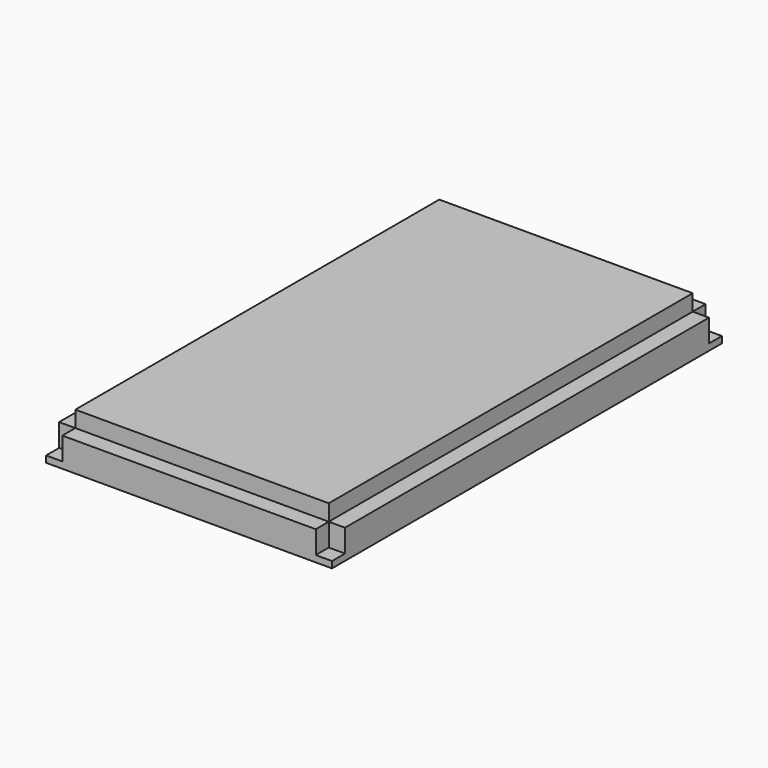
from build123d import *

# Parameters (mm, degrees)
BOX160_W                  = 26
BOX160_H                  = 26
BOX160_DEPTH              = 61
BOX161_W                  = 26
BOX161_H                  = 26
BOX161_DEPTH              = 61
BOX162_W                  = 26
BOX162_H                  = 26
BOX162_DEPTH              = 61
BOX163_W                  = 26
BOX163_H                  = 26
BOX163_DEPTH              = 61
BOX164_W                  = 26
BOX164_H                  = 26
BOX164_DEPTH              = 442
BOX165_W                  = 26
BOX165_H                  = 26
BOX165_DEPTH              = 442
BOX166_W                  = 26
BOX166_H                  = 26
BOX166_DEPTH              = 752
BOX167_W                  = 26
BOX167_H                  = 26
BOX167_DEPTH              = 752
FUSION056_PLACEMENT_ANGLE = 180
BOX129_W                  = 247
BOX129_H                  = 133
BOX129_DEPTH              = 45
BOX123_W                  = 205
BOX123_H                  = 131
BOX123_DEPTH              = 119
BOX123_ROLL_ANGLE         = 118
BOX123_PLACEMENT_ANGLE    = 180
BOX122_W                  = 187
BOX122_H                  = 131
BOX122_DEPTH              = 119
BOX099_W                  = 222
BOX099_H                  = 190
BOX099_DEPTH              = 67
BOX100_W                  = 247
BOX100_H                  = 290
BOX100_DEPTH              = 31.5
BOX098_W                  = 267
BOX098_H                  = 103
BOX098_DEPTH              = 63
BOX128_W                  = 222
BOX128_H                  = 174
BOX128_DEPTH              = 55
BOX114_W                  = 222
BOX114_H                  = 190
BOX114_DEPTH              = 67
BOX115_W                  = 247
BOX115_H                  = 290
BOX115_DEPTH              = 31.5
BOX113_W                  = 267
BOX113_H                  = 103
BOX113_DEPTH              = 63
BOX120_W                  = 237
BOX120_H                  = 55
BOX120_DEPTH              = 124
BOX130_W                  = 750
BOX130_H                  = 70
BOX130_DEPTH              = 440
CUT025_PLACEMENT_ANGLE    = 90


with BuildPart() as cube120:
    # Box160 → Box160 (new body)
    with BuildSketch(Plane(origin=(238, -256, -232), x_dir=(0, 0, 1), z_dir=(-1, 0, 0))):
        with Locations((13, 13)):
            Rectangle(BOX160_W, BOX160_H)
    extrude(amount=BOX160_DEPTH)


with BuildPart() as cube121:
    # Box161 → Box161 (new body)
    with BuildSketch(Plane(origin=(238, -256, 210), x_dir=(0, 1, 0), z_dir=(-1, 0, 0))):
        with Locations((13, 13)):
            Rectangle(BOX161_W, BOX161_H)
    extrude(amount=BOX161_DEPTH)


with BuildPart() as cube122:
    # Box162 → Box162 (new body)
    with BuildSketch(Plane(origin=(238, 496, -232), x_dir=(0, -1, 0), z_dir=(-1, 0, 0))):
        with Locations((13, 13)):
            Rectangle(BOX162_W, BOX162_H)
    extrude(amount=BOX162_DEPTH)


with BuildPart() as cube123:
    # Box163 → Box163 (new body)
    with BuildSketch(Plane(origin=(238, 496, 210), x_dir=(0, 0, -1), z_dir=(-1, 0, 0))):
        with Locations((13, 13)):
            Rectangle(BOX163_W, BOX163_H)
    extrude(amount=BOX163_DEPTH)


with BuildPart() as cube124:
    # Box164 → Box164 (new body)
    with BuildSketch(Plane(origin=(238, 496, 210), x_dir=(0, -1, 0), z_dir=(0, 0, -1))):
        with Locations((13, 13)):
            Rectangle(BOX164_W, BOX164_H)
    extrude(amount=BOX164_DEPTH)


with BuildPart() as cube125:
    # Box165 → Box165 (new body)
    with BuildSketch(Plane(origin=(238, -230, 210), x_dir=(0, -1, 0), z_dir=(0, 0, -1))):
        with Locations((13, 13)):
            Rectangle(BOX165_W, BOX165_H)
    extrude(amount=BOX165_DEPTH)


with BuildPart() as cube126:
    # Box166 → Box166 (new body)
    with BuildSketch(Plane(origin=(238, 496, 210), x_dir=(-1, 0, 0), z_dir=(0, -1, 0))):
        with Locations((13, 13)):
            Rectangle(BOX166_W, BOX166_H)
    extrude(amount=BOX166_DEPTH)


with BuildPart() as supportbeams001:
    # Box167 → Box167 (new body)
    with BuildSketch(Plane(origin=(238, 496, -206), x_dir=(-1, 0, 0), z_dir=(0, -1, 0))):
        with Locations((13, 13)):
            Rectangle(BOX167_W, BOX167_H)
    extrude(amount=BOX167_DEPTH)

    # Fusion056: union Cube120, Cube121, Cube122, Cube123, Cube124, Cube125, Cube126
    add(cube120.part)
    add(cube121.part)
    add(cube122.part)
    add(cube123.part)
    add(cube124.part)
    add(cube125.part)
    add(cube126.part)


with BuildPart() as supportbeams001_1:
    # Fusion056 placement: moved
    add(supportbeams001.part.moved(Location((172, 240, 0))).rotate(Axis((172, 240, 0), (0, 0, 1)), FUSION056_PLACEMENT_ANGLE))


with BuildPart() as f_120_envelope007:
    # Box129 → Box129 (new body)
    with BuildSketch(Plane(origin=(241.570357, -122, 54.646476), x_dir=(-1, 0, 0), z_dir=(0, 1, 0))):
        with Locations((123.5, 66.5)):
            Rectangle(BOX129_W, BOX129_H)
    extrude(amount=BOX129_DEPTH)


with BuildPart() as pocket009:
    # Box123 → Box123 (new body)
    with BuildSketch(Plane.XY):
        with Locations((102.5, 65.5)):
            Rectangle(BOX123_W, BOX123_H)
    extrude(amount=BOX123_DEPTH)


with BuildPart() as pocket009_1:
    # Box123 roll: moved
    add(pocket009.part.rotate(Axis((0, 0, 0), (1, 0, 0)), BOX123_ROLL_ANGLE))


with BuildPart() as pocket009_2:
    # Box123 placement: moved
    add(pocket009_1.part.moved(Location((141.57, -85, 25.646476))).rotate(Axis((141.57, -85, 25.646476), (0, 0, 1)), BOX123_PLACEMENT_ANGLE))


with BuildPart() as compound014:
    # Part__Mirroring003: instance of pocket009
    add(pocket009_2.part.mirror(Plane(origin=(0, 0, 0), x_dir=(0, 1, 0), z_dir=(0, 0, 1))))


with BuildPart() as compound014_1:
    # Compound014 placement: moved
    add(compound014.part.moved(Location((0, 0, -88))))


with BuildPart() as fusion043:
    # Fusion043 base: copy of pocket009
    add(pocket009_2.part)

    # Fusion043: union Compound014
    add(compound014_1.part)


with BuildPart() as prism002:
    # Box122 → Box122 (new body)
    with BuildSketch(Plane(origin=(136.57, -135, -109.353524), x_dir=(-1, 0, 0), z_dir=(0, 1, 0))):
        with Locations((93.5, 65.5)):
            Rectangle(BOX122_W, BOX122_H)
    extrude(amount=BOX122_DEPTH)

    # Cut020: cut Fusion043
    add(fusion043.part, mode=Mode.SUBTRACT)


with BuildPart() as prism002_1:
    # Cut020 placement: moved
    add(prism002.part.moved(Location((35, 0, 0))))


with BuildPart() as cube073:
    # Box099 → Box099 (new body)
    with BuildSketch(Plane(origin=(216.570357, -4, -2.353524), x_dir=(-1, 0, 0), z_dir=(0, 1, 0))):
        with Locations((111, 95)):
            Rectangle(BOX099_W, BOX099_H)
    extrude(amount=BOX099_DEPTH)


with BuildPart() as cube074:
    # Box100 → Box100 (new body)
    with BuildSketch(Plane(origin=(221.570357, 18, -102.353524), x_dir=(-1, 0, 0), z_dir=(0, 1, 0))):
        with Locations((123.5, 145)):
            Rectangle(BOX100_W, BOX100_H)
    extrude(amount=BOX100_DEPTH)


with BuildPart() as standard_envelope002:
    # Box098 → Box098 (new body)
    with BuildSketch(Plane(origin=(216.570357, -2, 23.646476), x_dir=(-1, 0, 0), z_dir=(0, 1, 0))):
        with Locations((133.5, 51.5)):
            Rectangle(BOX098_W, BOX098_H)
    extrude(amount=BOX098_DEPTH)

    # Fusion036: union Cube073, Cube074
    add(cube073.part)
    add(cube074.part)


with BuildPart() as obj1:
    # Box128 → Box128 (new body)
    with BuildSketch(Plane(origin=(216.570357, 393, -2.353524), x_dir=(-1, 0, 0), z_dir=(0, 1, 0))):
        with Locations((111, 87)):
            Rectangle(BOX128_W, BOX128_H)
    extrude(amount=BOX128_DEPTH)


with BuildPart() as cube088:
    # Box114 → Box114 (new body)
    with BuildSketch(Plane(origin=(216.570357, -4, -2.353524), x_dir=(-1, 0, 0), z_dir=(0, 1, 0))):
        with Locations((111, 95)):
            Rectangle(BOX114_W, BOX114_H)
    extrude(amount=BOX114_DEPTH)


with BuildPart() as cube089:
    # Box115 → Box115 (new body)
    with BuildSketch(Plane(origin=(221.570357, 18, -102.353524), x_dir=(-1, 0, 0), z_dir=(0, 1, 0))):
        with Locations((123.5, 145)):
            Rectangle(BOX115_W, BOX115_H)
    extrude(amount=BOX115_DEPTH)


with BuildPart() as standard_envelope003:
    # Box113 → Box113 (new body)
    with BuildSketch(Plane(origin=(216.570357, -2, 23.646476), x_dir=(-1, 0, 0), z_dir=(0, 1, 0))):
        with Locations((133.5, 51.5)):
            Rectangle(BOX113_W, BOX113_H)
    extrude(amount=BOX113_DEPTH)

    # Fusion042: union Cube088, Cube089
    add(cube088.part)
    add(cube089.part)


with BuildPart() as fusion053:
    # Part__Mirroring002: instance of Standard envelope003
    add(standard_envelope003.part.mirror(Plane(origin=(0, 0, 0), x_dir=(1, 0, 0), z_dir=(0, 1, 0))))


with BuildPart() as fusion053_1:
    # Part__Mirroring002 placement: moved
    add(fusion053.part.moved(Location((0, 407.25, 0))))

    # Fusion053: union obj1
    add(obj1.part)


with BuildPart() as fusion054:
    # Box120 → Box120 (new body)
    with BuildSketch(Plane(origin=(216.570357, 100, -72.353524), x_dir=(-1, 0, 0), z_dir=(0, 1, 0))):
        with Locations((118.5, 27.5)):
            Rectangle(BOX120_W, BOX120_H)
    extrude(amount=BOX120_DEPTH)

    # Fusion054: union 120 envelope007, prism002, Standard envelope002, Fusion053
    add(f_120_envelope007.part)
    add(prism002_1.part)
    add(standard_envelope002.part)
    add(fusion053_1.part)


with BuildPart() as cut025:
    # Box130 → Box130 (new body)
    with BuildSketch(Plane(origin=(5, -255, -231), x_dir=(0, 1, 0), z_dir=(0, 0, 1))):
        with Locations((375, 35)):
            Rectangle(BOX130_W, BOX130_H)
    extrude(amount=BOX130_DEPTH)

    # Cut024: cut Fusion054
    add(fusion054.part, mode=Mode.SUBTRACT)

    # Cut025: cut Supportbeams001
    add(supportbeams001_1.part, mode=Mode.SUBTRACT)


with BuildPart() as cut025_1:
    # Cut025 placement: moved
    add(cut025.part.moved(Location((-204, 755, 215))).rotate(Axis((-204, 755, 215), (0, 1, 0)), CUT025_PLACEMENT_ANGLE))


solid = cut025_1.part
